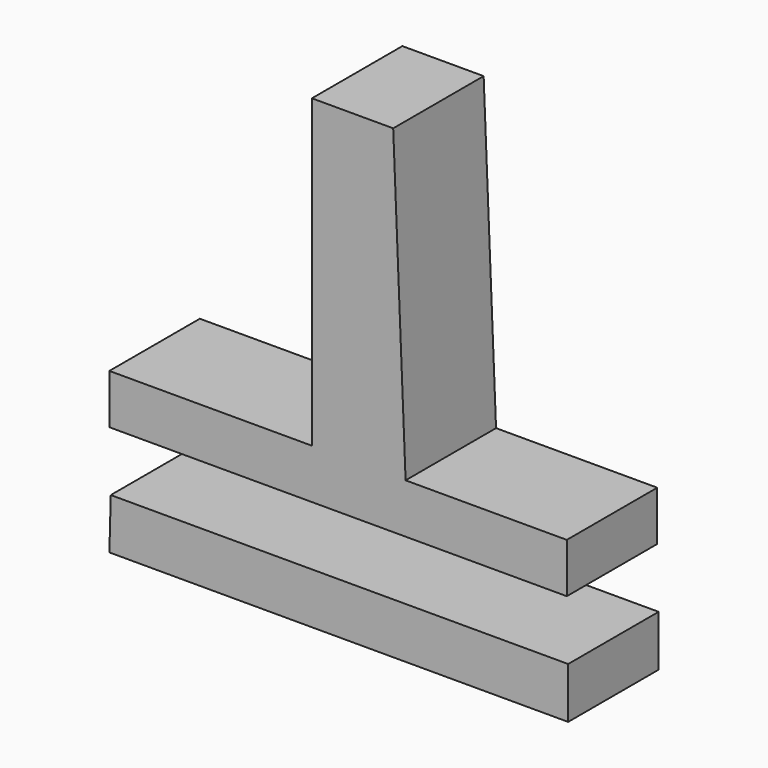
from build123d import *

# Parameters (mm, degrees)
F1_DEPTH = 25.4


with BuildPart() as f1:
    # F0 (on Front) → F1 (new body)
    with BuildSketch(Plane.XZ):
        Polygon((-10.214043, 45.96319), (-10.214043, -22.749459), (10.833075, -22.749459), (8.047428, 45.96319), align=None)
        Polygon((-10.214043, -22.749459), (-55.712961, -22.749459), (-55.712961, -33.89205), (47.046501, -33.89205), (47.046501, -22.749459), (10.833075, -22.749459), align=None)
        Polygon((47.356017, -47.201257), (-55.403445, -47.201257), (-55.712961, -58.653366), (47.356017, -58.653366), align=None)
    extrude(amount=F1_DEPTH)


solid = f1.part
